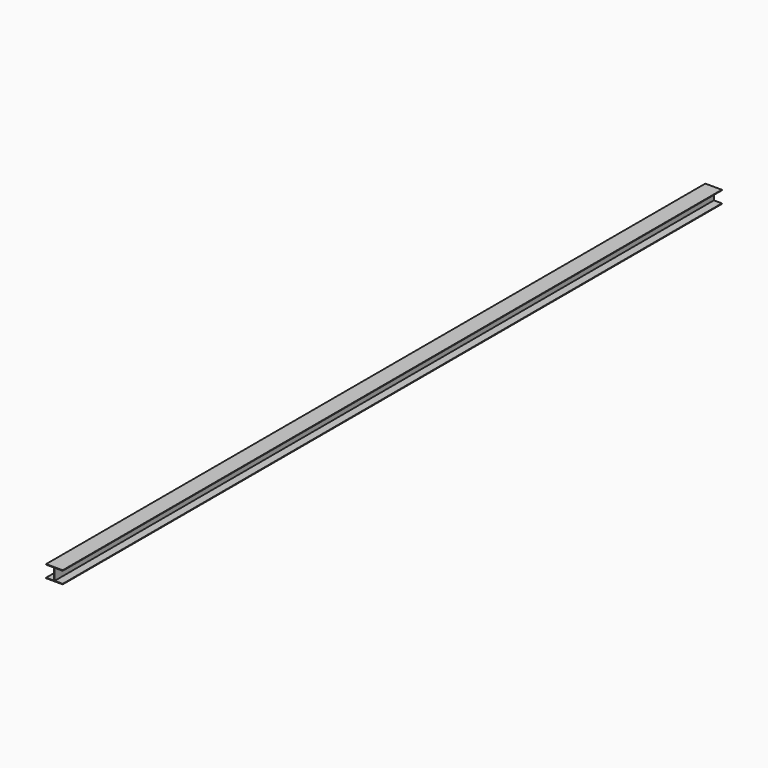
from build123d import *

# Parameters (mm, degrees)
F1_DEPTH = 10058.4


with BuildPart() as f1:
    # F0 (on Front) → F1 (new body)
    with BuildSketch(Plane.XZ):
        Polygon((0, 152.4), (0, 0), (101.6, 0), (101.6, 6.35), (3.175, 6.35), (3.175, 146.05), (101.6, 146.05), (101.6, 152.4), align=None)
    extrude(amount=-F1_DEPTH)

    # F2: F1 across face


with BuildPart() as f1_1:
    add(f1.part)
    add(f1.part.mirror(Plane(origin=(0, 5029.2, 76.2), x_dir=(0, -1, 0), z_dir=(-1, 0, 0))))


solid = f1_1.part
